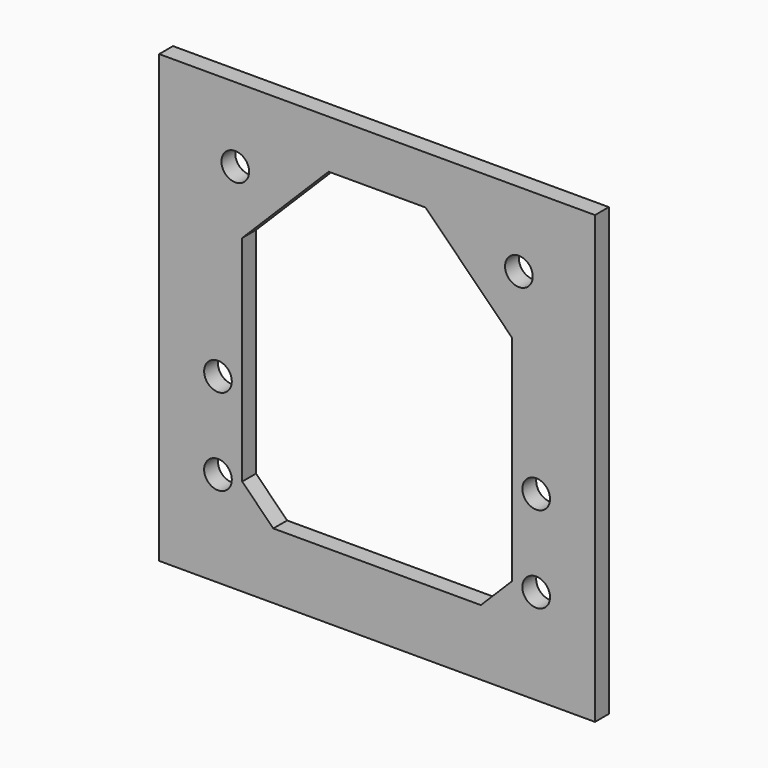
from build123d import *

# Parameters (mm, degrees)
F0_W     = 126
F0_H     = 129
F0_R     = 4
F1_DEPTH = 5


with BuildPart() as f1:
    # F0 (on Front) → F1 (new body)
    with BuildSketch(Plane.XZ):
        with Locations((63, 64.5)):
            Rectangle(F0_W, F0_H)
        with Locations((17, 27.5)):
            Circle(F0_R, mode=Mode.SUBTRACT)
        with Locations((17, 52.5)):
            Circle(F0_R, mode=Mode.SUBTRACT)
        with Locations((109, 27.5)):
            Circle(F0_R, mode=Mode.SUBTRACT)
        with Locations((109, 52.5)):
            Circle(F0_R, mode=Mode.SUBTRACT)
        with Locations((22, 107.5)):
            Circle(F0_R, mode=Mode.SUBTRACT)
        Polygon((93, 19), (33, 19), (24, 28), (24, 90), (49, 115), (77, 115), (102, 90), (102, 28), align=None, mode=Mode.SUBTRACT)
        with Locations((104, 107.5)):
            Circle(F0_R, mode=Mode.SUBTRACT)
    extrude(amount=F1_DEPTH)


solid = f1.part
